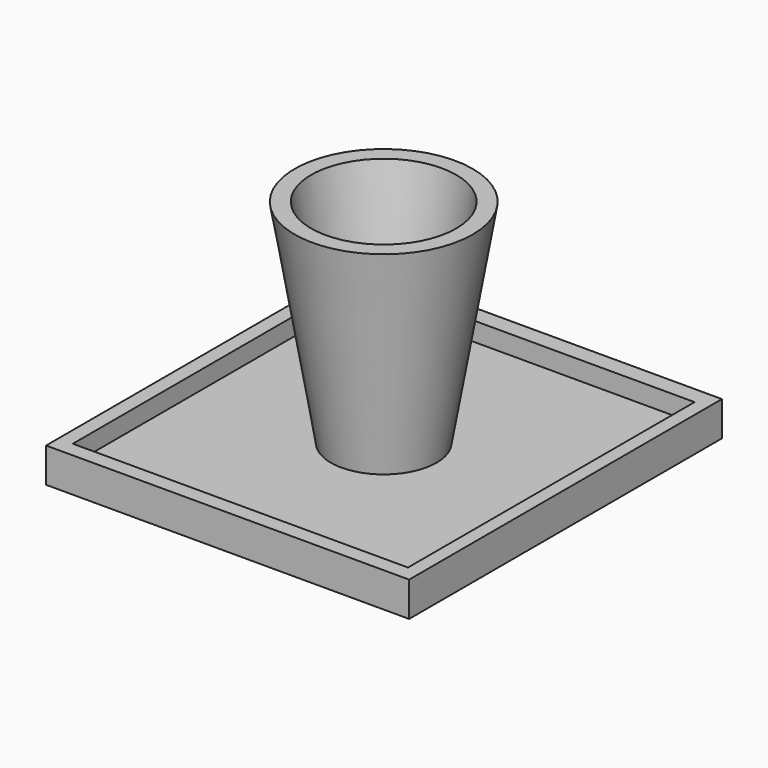
from build123d import *

# Parameters (mm, degrees)
F2_R     = 27.156272
F0_R     = 15.282677
F0_W     = 4.407648
F0_H     = 109.30971
F0_W_2   = 4.113804
F0_H_2   = 5.289179
F4_DEPTH = 10.566
F5_R     = 22.143886
F6_R     = 11.471195
F8_W     = 102.133096
F8_H     = 108.483352
F9_DEPTH = 5.12726


with BuildPart() as f3:
    # F2 (on offset) → F3 section 0
    with BuildSketch(Plane.XY.offset(70)):
        Circle(F2_R)
    # F0 (on Top) → F3 section 1
    with BuildSketch(Plane.XY):
        Circle(F0_R)
    loft()

    # F5 (on face) → F7 section 0
    with BuildSketch(Plane.XY.offset(70)):
        Circle(F5_R)
    # F6 (on Top) → F7 section 1
    with BuildSketch(Plane.XY):
        Circle(F6_R)
    loft(mode=Mode.SUBTRACT)

    # F8 (on Top) → F9 (join)
    with BuildSketch(Plane.XY):
        Rectangle(F8_W, F8_H)
    extrude(amount=F9_DEPTH)


with BuildPart() as f4:
    # F0 (on Top) → F4 (new body)
    with BuildSketch(Plane.XY):
        Polygon((-55.536382, 54.654855), (-51.128734, 54.654855), (51.128734, 54.654855), (51.128734, 59.944034), (-55.536382, 59.944034), align=None)
        with Locations((-53.332558, 0)):
            Rectangle(F0_W, F0_H)
        Polygon((55.242538, 54.654855), (51.128734, 54.654855), (51.128734, -54.654855), (51.128734, -59.356347), (55.242538, -59.356347), align=None)
        with Locations((53.185636, 57.299444)):
            Rectangle(F0_W_2, F0_H_2)
        Polygon((51.128734, -54.654855), (-51.128734, -54.654855), (-55.536382, -54.654855), (-55.536382, -59.356347), (51.128734, -59.356347), align=None)
    extrude(amount=F4_DEPTH)


solid = Compound([f3.part, f4.part])
